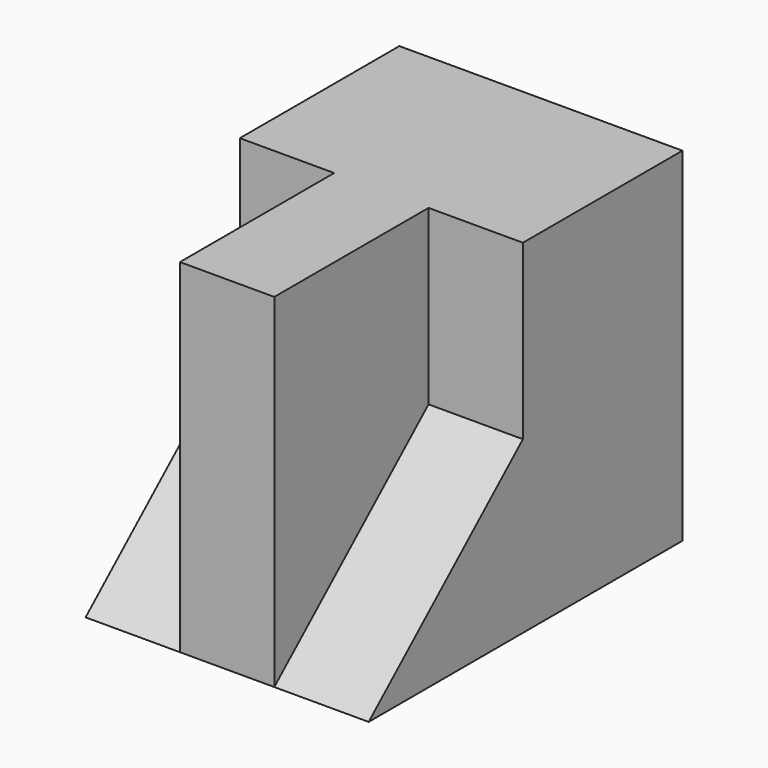
from build123d import *

# Parameters (mm, degrees)
F0_W     = 105.568755
F0_H     = 92.456006
F1_DEPTH = 12.7
F2_W     = 105.568755
F2_H     = 92.456006
F3_DEPTH = 12.7
F5_DEPTH = 25.4
F7_DEPTH = 25.4


with BuildPart() as f1:
    # F0 (on Right) → F1 (new body)
    with BuildSketch(Plane.YZ):
        with Locations((0.889001, 0.333376)):
            Rectangle(F0_W, F0_H)
    extrude(amount=F1_DEPTH)

    # F2 (on face) → F3 (join)
    with BuildSketch(Plane(origin=(0, 0, 0), x_dir=(0, -1, 0), z_dir=(-1, 0, 0))):
        with Locations((-0.889001, 0.333376)):
            Rectangle(F2_W, F2_H)
    extrude(amount=F3_DEPTH)

    # F4 (on face) → F5 (join)
    with BuildSketch(Plane(origin=(-12.7, 0, 0), x_dir=(0, -1, 0), z_dir=(-1, 0, 0))):
        Polygon((51.895376, -45.894627), (0, 0), (0, 46.561379), (-53.673379, 46.561379), (-53.673379, -45.894627), align=None)
    extrude(amount=F5_DEPTH)

    # F6 (on face) → F7 (join)
    with BuildSketch(Plane.YZ.offset(12.7)):
        Polygon((0, 46.561379), (0, 0), (-51.895376, -45.894627), (53.673379, -45.894627), (53.673379, 46.561379), align=None)
    extrude(amount=F7_DEPTH)


solid = f1.part
